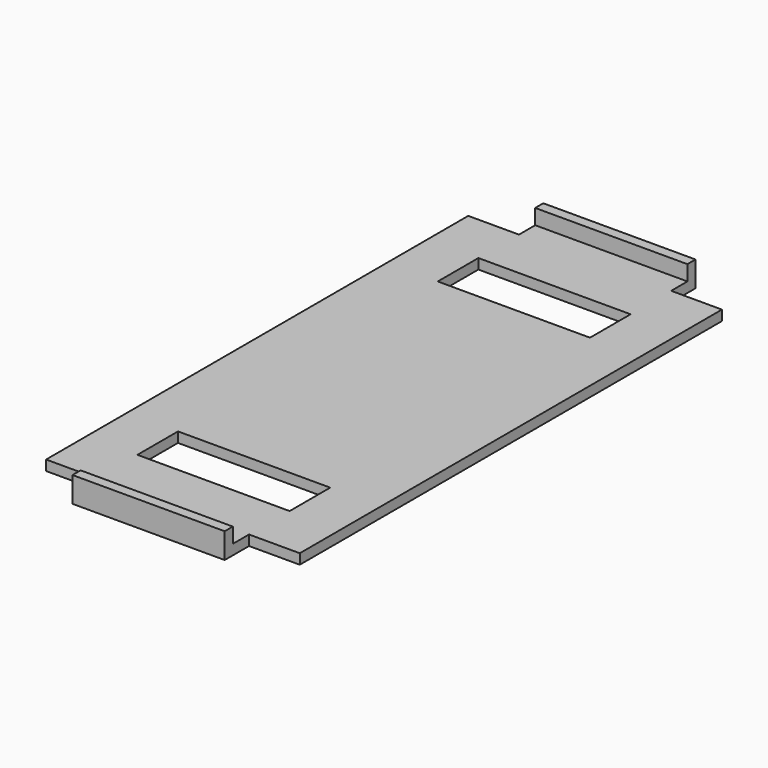
from build123d import *

# Parameters (mm, degrees)
F0_W     = 30
F0_H     = 10
F0_H_2   = 4
F0_H_3   = 2
F1_DEPTH = 2
F2_DEPTH = 5
F0_H_4   = 64
F3_DEPTH = 2


with BuildPart() as f1:
    # F0 (on Top) → F1 (new body)
    with BuildSketch(Plane.XY):
        with Locations((0, 47)):
            Rectangle(F0_W, F0_H)
        Polygon((15, -42), (15, -52), (25, -52), (25, 52), (15, 52), (15, 42), (15, 32), (15, -32), align=None)
        with Locations((0, 54)):
            Rectangle(F0_W, F0_H_2)
        with Locations((0, 57)):
            Rectangle(F0_W, F0_H_3)
        Polygon((-25, -52), (-15, -52), (-15, -42), (-15, -32), (-15, 32), (-15, 42), (-15, 52), (-25, 52), align=None)
    extrude(amount=F1_DEPTH)

    # F0 (on Top) → F2, piece 2 (join)
    with BuildSketch(Plane.XY):
        with Locations((0, 57)):
            Rectangle(F0_W, F0_H_3)
    extrude(amount=F2_DEPTH)



with BuildPart() as f1b:
    # F0 (on Top) → F1, piece 2 (new body)
    with BuildSketch(Plane.XY):
        with Locations((0, -54)):
            Rectangle(F0_W, F0_H_2)
        with Locations((0, -57)):
            Rectangle(F0_W, F0_H_3)
        with Locations((0, -54)):
            Rectangle(F0_W, F0_H_2)
    extrude(amount=F1_DEPTH)

    # F0 (on Top) → F2 (join)
    with BuildSketch(Plane.XY):
        with Locations((0, -57)):
            Rectangle(F0_W, F0_H_3)
    extrude(amount=F2_DEPTH)


with BuildPart() as f1_1:
    add(f1.part)

    add(f1b.part)  # F3 merges F1b
    # F0 (on Top) → F3 (join)
    with BuildSketch(Plane.XY):
        Rectangle(F0_W, F0_H_4)
        with Locations((0, -47)):
            Rectangle(F0_W, F0_H)
    extrude(amount=F3_DEPTH)


solid = f1_1.part
